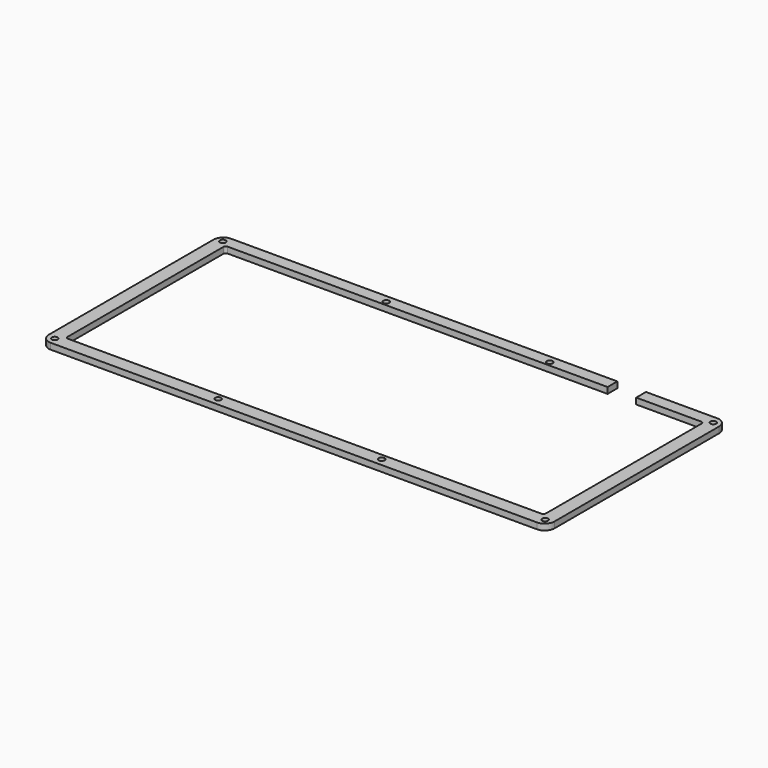
from build123d import *

# Parameters (mm, degrees)
SKETCH_W        = 263.525
SKETCH_H        = 117.475
PAD_DEPTH       = 3.175
SKETCH002_W     = 249.2375
SKETCH002_H     = 103.98125
POCKET_DEPTH    = 3.176
SKETCH003_W     = 14.9225
SKETCH003_H     = 25.4
POCKET001_DEPTH = 3.176
SKETCH001_R     = 1.5494
HOLE_DEPTH      = 3.176
FILLET_R        = 5.08
FILLET001_R     = 1.27


with BuildPart() as part:
    # Sketch → Pad (new body)
    with BuildSketch(Plane.XY):
        Rectangle(SKETCH_W, SKETCH_H)
    extrude(amount=PAD_DEPTH)

    # Sketch002 (on Face6 of Pad) → Pocket (cut, through all)
    with BuildSketch(Plane.XY.offset(3.175)):
        with Locations((0, 0.396875)):
            Rectangle(SKETCH002_W, SKETCH002_H)
    extrude(amount=-POCKET_DEPTH, mode=Mode.SUBTRACT)

    # Sketch003 (on Face5 of Pocket) → Pocket001 (cut, through all)
    with BuildSketch(Plane.XY.offset(3.175)):
        with Locations((82.07375, 46.0375)):
            Rectangle(SKETCH003_W, SKETCH003_H)
    extrude(amount=-POCKET001_DEPTH, mode=Mode.SUBTRACT)

    # Sketch001 (on Face6 of Pad) → Hole (cut, through all)
    with BuildSketch(Plane.XY.offset(3.175)):
        with Locations((-42.597917, 54.76875)):
            Circle(SKETCH001_R)
        with Locations((42.597917, 54.76875)):
            Circle(SKETCH001_R)
        with Locations((42.597917, -54.76875)):
            Circle(SKETCH001_R)
        with Locations((-42.597917, -54.76875)):
            Circle(SKETCH001_R)
        with Locations((-127.79375, -54.76875)):
            Circle(SKETCH001_R)
        with Locations((-127.79375, 54.76875)):
            Circle(SKETCH001_R)
        with Locations((127.79375, 54.76875)):
            Circle(SKETCH001_R)
        with Locations((127.79375, -54.76875)):
            Circle(SKETCH001_R)
    extrude(amount=-HOLE_DEPTH, mode=Mode.SUBTRACT)

    # Fillet
    fillet_edges = [part.edges().sort_by_distance(p)[0] for p in [
        (-131.7625, 58.7375, 1.5875),
        (-131.7625, -58.7375, 1.5875),
        (131.7625, -58.7375, 1.5875),
        (131.7625, 58.7375, 1.5875),
    ]]
    fillet(fillet_edges, radius=FILLET_R)

    # Fillet001
    fillet001_edges = [part.edges().sort_by_distance(p)[0] for p in [
        (-124.61875, 52.3875, 1.5875),
        (124.61875, 52.3875, 1.5875),
        (-124.61875, -51.59375, 1.5875),
        (124.61875, -51.59375, 1.5875),
    ]]
    fillet(fillet001_edges, radius=FILLET001_R)


solid = part.part
